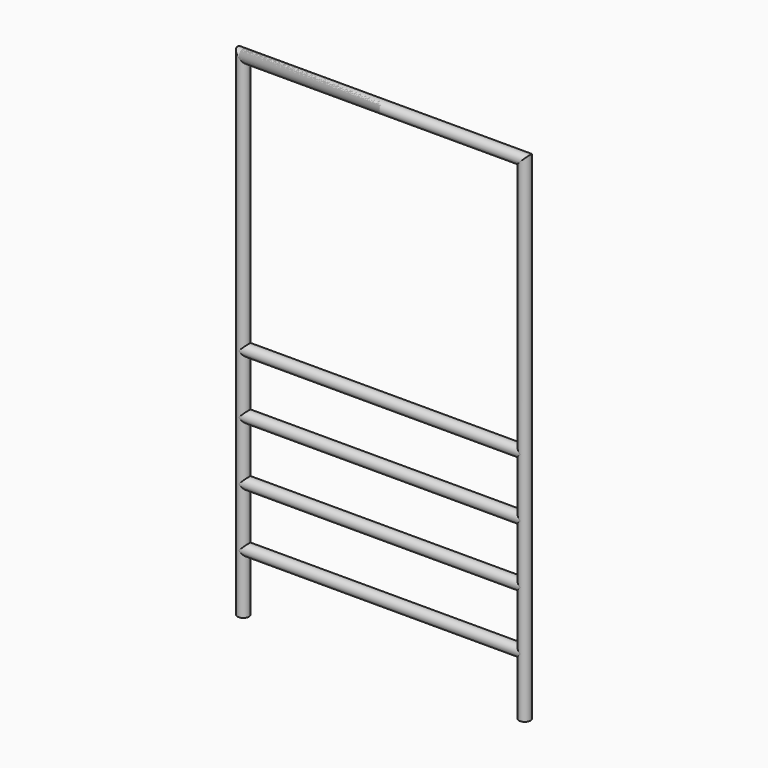
from build123d import *

# Parameters (mm, degrees)
F0_R     = 25
F4_R     = 25
F7_R     = 25
F8_DEPTH = 1219.2


with BuildPart() as f2:
    # F2: sweep along a path in F1
    with BuildLine(Plane.XZ) as f2_path:
        Line((0, 0), (0, 2133.6))
        Line((0, 2133.6), (609.6, 2133.6))
    # F0 (on Top) → F2 (sweep)
    with BuildSketch(Plane.XY):
        Circle(F0_R)
    sweep(path=f2_path.line, transition=Transition.RIGHT)


with BuildPart() as f5:
    # F5: sweep along a path in F1
    with BuildLine(Plane.XZ) as f5_path:
        Line((1219.2, 0), (1219.2, 2133.6))
        Line((1219.2, 2133.6), (0, 2133.6))
    # F4 (on line) → F5 (sweep)
    with BuildSketch(Plane(origin=(0, 0, 0), x_dir=(1, 0, 0), z_dir=(0, 0, -1))):
        with Locations((1219.2332744598, 0)):
            Circle(F4_R)
    sweep(path=f5_path.line, transition=Transition.RIGHT)


with BuildPart() as f8:
    # F7 (on line) → F8 (new body)
    with BuildSketch(Plane.YZ):
        with Locations((0, 1016.3271427155)):
            Circle(F7_R)
    extrude(amount=F8_DEPTH)


with BuildPart() as f8b:
    # F7 (on line) → F8, piece 2 (new body)
    with BuildSketch(Plane.YZ):
        with Locations((0, 762.6966238022)):
            Circle(F7_R)
    extrude(amount=F8_DEPTH)


with BuildPart() as f8c:
    # F7 (on line) → F8, piece 3 (new body)
    with BuildSketch(Plane.YZ):
        with Locations((0, 508.5642337799)):
            Circle(F7_R)
    extrude(amount=F8_DEPTH)


with BuildPart() as f8d:
    # F7 (on line) → F8, piece 4 (new body)
    with BuildSketch(Plane.YZ):
        with Locations((0, 254.9025118351)):
            Circle(F7_R)
    extrude(amount=F8_DEPTH)


solid = Compound([f2.part, f5.part, f8.part, f8b.part, f8c.part, f8d.part])
